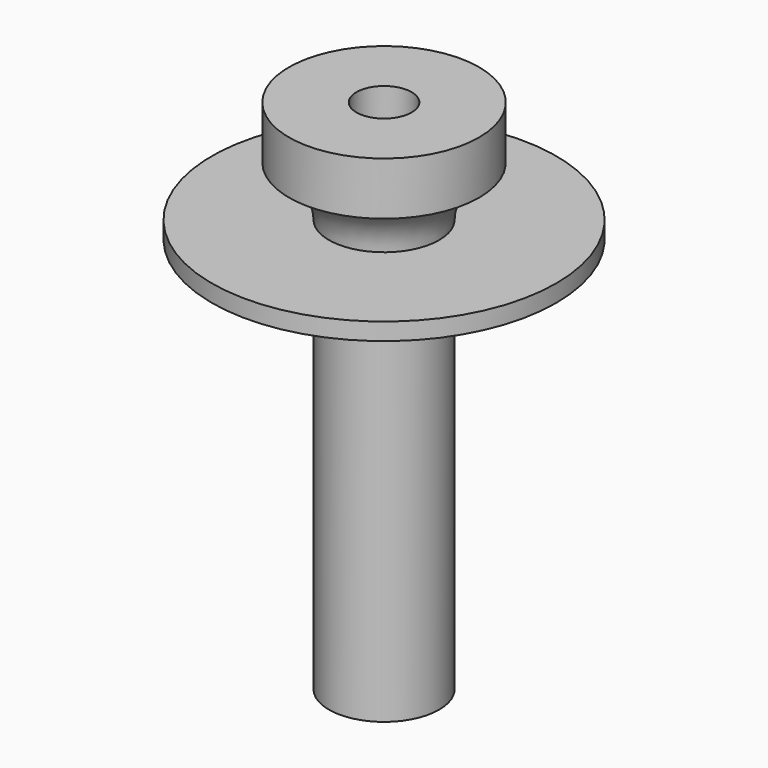
from build123d import *


with BuildPart() as f1:
    # F0 (on Front) → F1 (revolve)
    with BuildSketch(Plane.XZ):
        with BuildLine():
            Line((0, 141), (0, 0))
            Line((0, 0), (16, 0))
            Line((16, 0), (16, 115))
            Line((16, 115), (50, 115))
            Line((50, 115), (50, 120))
            Line((50, 120), (16, 120))
            ThreePointArc((16, 120), (19.252662, 129.327381), (27.600006, 134.609587))
            Line((27.600006, 134.609587), (27.600006, 150))
            Line((27.600006, 150), (8, 150))
            Line((8, 150), (8, 141))
            Line((8, 141), (0, 141))
        make_face()
    revolve(axis=Axis((0, 0, 70.5), (0, 0, 1)))


solid = f1.part
